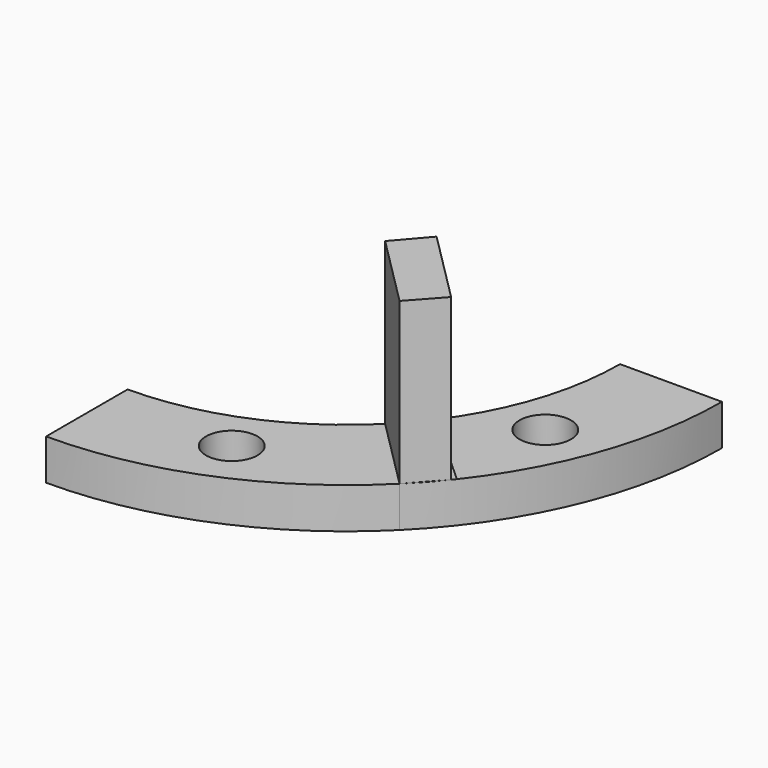
from build123d import *

# Parameters (mm, degrees)
F0_R     = 12
F1_DEPTH = 19
F3_DEPTH = 75


with BuildPart() as f1:
    # F0 (on Top) → F1 (new body)
    with BuildSketch(Plane.XY):
        with BuildLine():
            ThreePointArc((90.156115, -90.156115), (48.792138, -117.79464), (0, -127.5))
            Line((0, -127.5), (0, -175))
            ThreePointArc((0, -175), (66.969601, -161.678918), (123.743687, -123.743687))
            Line((123.743687, -123.743687), (90.156115, -90.156115))
        make_face()
        with Locations((57.402515, -138.58193)):
            Circle(F0_R, mode=Mode.SUBTRACT)
        with BuildLine():
            ThreePointArc((127.5, 0), (117.79464, -48.792138), (90.156115, -90.156115))
            Line((90.156115, -90.156115), (123.743687, -123.743687))
            ThreePointArc((123.743687, -123.743687), (161.678918, -66.969601), (175, 0))
            Line((175, 0), (127.5, 0))
        make_face()
        with Locations((138.58193, -57.402515)):
            Circle(F0_R, mode=Mode.SUBTRACT)
    extrude(amount=-F1_DEPTH)

    # F2 (on face) → F3 (join)
    with BuildSketch(Plane.XY):
        Polygon((102.584482, -75.714424), (90.156115, -90.156115), (123.743687, -123.743687), (136.447223, -109.577166), align=None)
    extrude(amount=F3_DEPTH)


solid = f1.part
